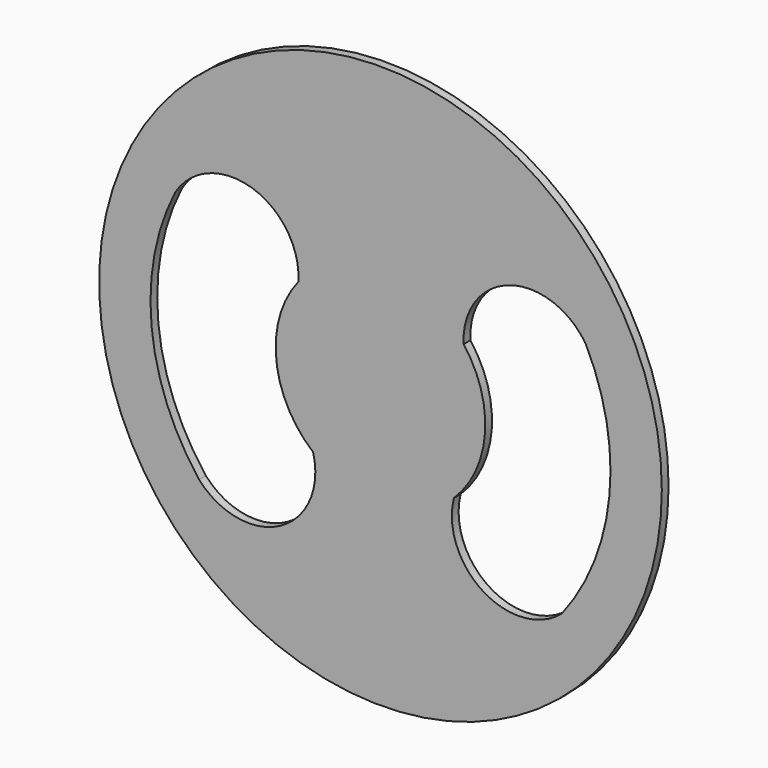
from build123d import *

# Parameters (mm, degrees)
F0_R     = 50.8
F1_DEPTH = 1.524


with BuildPart() as f1:
    # F0 (on Front) → F1 (new body)
    with BuildSketch(Plane.XZ):
        Circle(F0_R)
        with BuildLine():
            ThreePointArc((-32.743325, -25.544716), (-41.334156, -4.018132), (-37.050229, 18.76002))
            ThreePointArc((-37.050229, 18.76002), (-23.2074, 23.935861), (-14.817719, 11.769246))
            ThreePointArc((-14.817719, 11.769246), (-18.826709, -1.906553), (-12.157372, -14.500974))
            ThreePointArc((-12.157372, -14.500974), (-18.09988, -28.132282), (-32.743325, -25.544716))
        make_face(mode=Mode.SUBTRACT)
        with BuildLine():
            ThreePointArc((32.743325, -25.544716), (18.588573, -26.668251), (13.248466, -13.511406))
            ThreePointArc((13.248466, -13.511406), (18.876275, -1.328977), (15.01092, 11.521814))
            ThreePointArc((15.01092, 11.521814), (23.259145, 23.579527), (37.050229, 18.76002))
            ThreePointArc((37.050229, 18.76002), (41.334156, -4.018132), (32.743325, -25.544716))
        make_face(mode=Mode.SUBTRACT)
    extrude(amount=F1_DEPTH)


solid = f1.part
